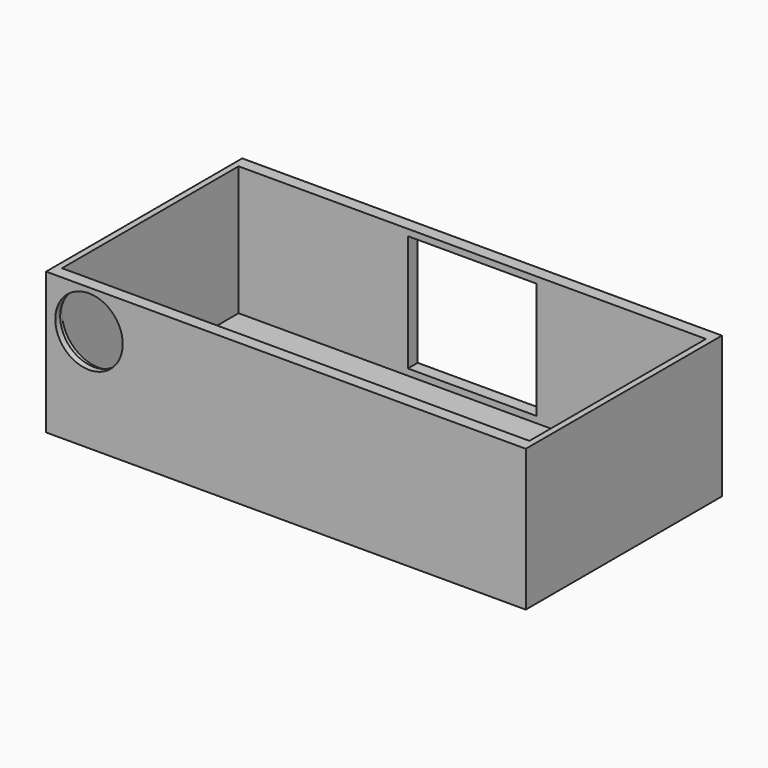
from build123d import *

# Parameters (mm, degrees)
F0_W           = 78.25
F0_H           = 40
F1_DEPTH       = 23.1
F2_W           = 76.25
F2_H           = 36
F3_DEPTH       = 21.1
F5_D           = 11
F5_DEPTH       = 10
F5_CBORE_D     = 12
F5_CBORE_DEPTH = 1
F7_W           = 21
F7_H           = 19
F8_DEPTH       = 25.4
F8_DEPTH_BACK  = 25.4


with BuildPart() as f1:
    # F0 (on Top) → F1 (new body)
    with BuildSketch(Plane.XY):
        Rectangle(F0_W, F0_H)
    extrude(amount=F1_DEPTH)

    # F2 (on face) → F3 (cut)
    with BuildSketch(Plane.XY.offset(23.1)):
        Rectangle(F2_W, F2_H)
    extrude(amount=-F3_DEPTH, mode=Mode.SUBTRACT)

    # F5
    with Locations(Plane(origin=(0, -18, 0), x_dir=(-1, 0, 0), z_dir=(0, 1, 0))):
        with Locations((32.125, 16.76)):
            CounterBoreHole(F5_D / 2, F5_CBORE_D / 2, F5_CBORE_DEPTH, depth=F5_DEPTH)

    # F7 (on face) → F8 (cut, two sides)
    with BuildSketch(Plane.XZ.offset(-18)) as f8_sk:
        with Locations((0, 12.55)):
            Rectangle(F7_W, F7_H)
    extrude(amount=-F8_DEPTH, mode=Mode.SUBTRACT)
    extrude(f8_sk.sketch, amount=-F8_DEPTH_BACK, mode=Mode.SUBTRACT)


solid = f1.part
